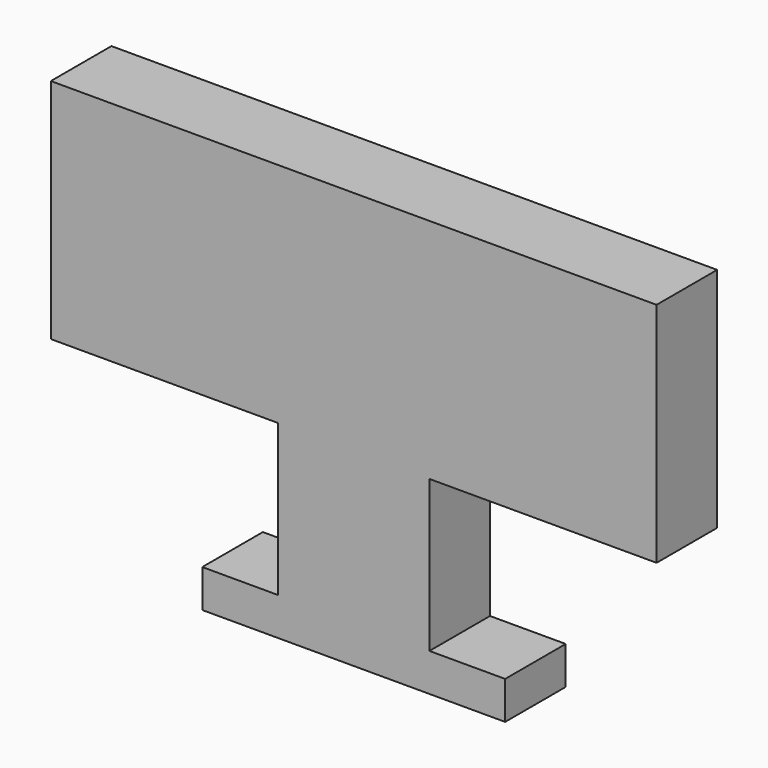
from build123d import *

# Parameters (mm, degrees)
F0_W     = 50.8
F0_H     = 50.8
F1_DEPTH = 25.4


with BuildPart() as f1:
    # F0 (on Front) → F1 (new body)
    with BuildSketch(Plane.XZ):
        Polygon((101.6, 38.1), (-101.6, 38.1), (-101.6, -38.1), (-25.4, -38.1), (25.4, -38.1), (101.6, -38.1), align=None)
        Polygon((25.4, -88.9), (-25.4, -88.9), (-50.8, -88.9), (-50.8, -101.6), (50.8, -101.6), (50.8, -88.9), align=None)
        with Locations((0, -63.5)):
            Rectangle(F0_W, F0_H)
    extrude(amount=F1_DEPTH)


solid = f1.part
